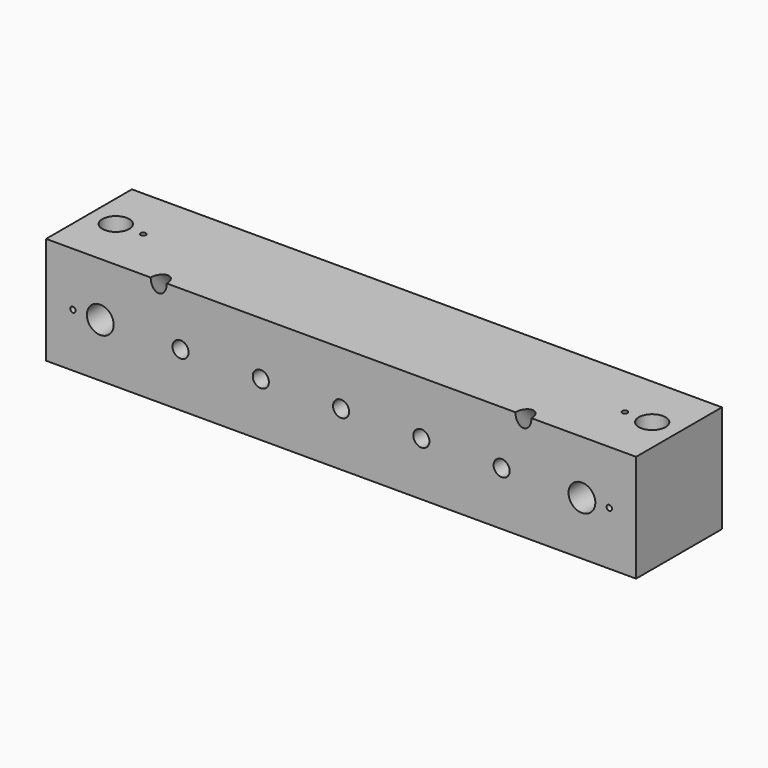
from build123d import *

# Parameters (mm, degrees)
F0_W     = 110
F0_H     = 20
F0_R     = 2.5
F0_R_2   = 0.5
F1_DEPTH = 20
F3_R     = 1.5
F4_DEPTH = 28.285271
F5_R     = 2.5
F5_R_2   = 0.5
F5_R_3   = 1.5
F6_DEPTH = 20.001


with BuildPart() as f1:
    # F0 (on Top) → F1 (new body)
    with BuildSketch(Plane.XY):
        Rectangle(F0_W, F0_H)
        with Locations((-50, 0)):
            Circle(F0_R, mode=Mode.SUBTRACT)
        with Locations((-44.9, 0)):
            Circle(F0_R_2, mode=Mode.SUBTRACT)
        with Locations((44.9, 0)):
            Circle(F0_R_2, mode=Mode.SUBTRACT)
        with Locations((50, 0)):
            Circle(F0_R, mode=Mode.SUBTRACT)
    extrude(amount=F1_DEPTH)

    # F3 (on face) → F4 (cut, through all)
    with BuildSketch(Plane(origin=(0, -15, 15), x_dir=(1, 0, 0), z_dir=(0, -0.707107, 0.707107))):
        with Locations((-34, 7.071068)):
            Circle(F3_R)
        with Locations((34, 7.071068)):
            Circle(F3_R)
    extrude(amount=-F4_DEPTH, mode=Mode.SUBTRACT)

    # F5 (on face) → F6 (cut, through all)
    with BuildSketch(Plane.XZ.offset(10)):
        with Locations((-44.9, 10)):
            Circle(F5_R)
        with Locations((44.9, 10)):
            Circle(F5_R)
        with Locations((-50, 10)):
            Circle(F5_R_2)
        with Locations((-29.933333, 10)):
            Circle(F5_R_3)
        with Locations((-14.966667, 10)):
            Circle(F5_R_3)
        with Locations((0, 10)):
            Circle(F5_R_3)
        with Locations((14.966667, 10)):
            Circle(F5_R_3)
        with Locations((29.933333, 10)):
            Circle(F5_R_3)
        with Locations((50, 10)):
            Circle(F5_R_2)
    extrude(amount=-F6_DEPTH, mode=Mode.SUBTRACT)


solid = f1.part
